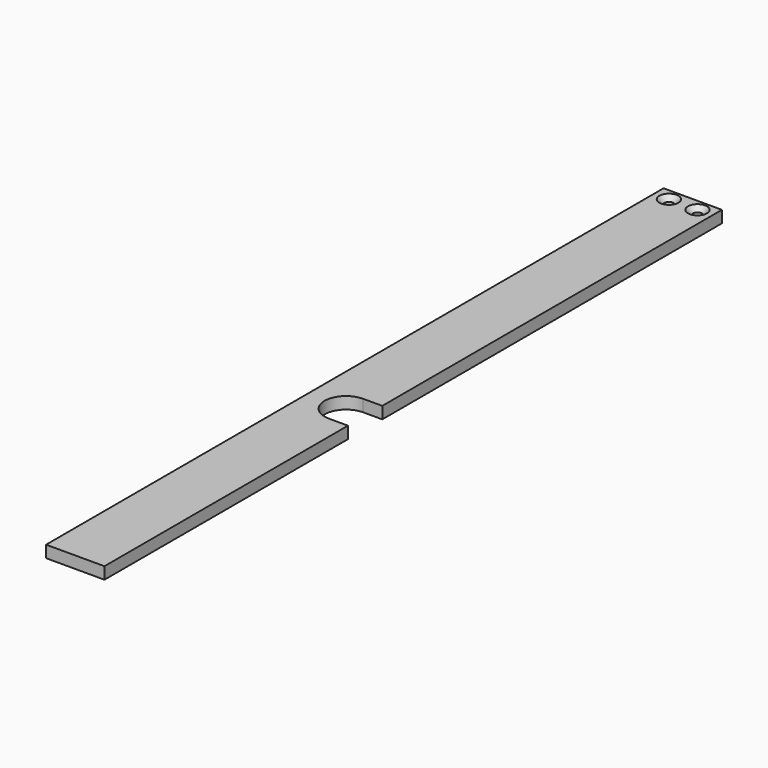
from build123d import *

# Parameters (mm, degrees)
PAD027_DEPTH    = 5
SKETCH059_R     = 2
POCKET037_DEPTH = 5.001
CHAMFER021_SIZE = 2


with BuildPart() as part:
    # Sketch054 → Pad027 (new body)
    with BuildSketch(Plane.XY):
        with BuildLine():
            Line((8.676816, 19.977719), (8.676816, -107.8))
            Line((8.676816, -107.8), (-15.823184, -107.8))
            Line((-15.823184, -107.8), (-15.823184, 216.2))
            Line((-15.823184, 216.2), (8.676816, 216.2))
            Line((8.676816, 216.2), (8.676816, 37.977719))
            Line((0.676816, 37.977719), (8.676816, 37.977719))
            ThreePointArc((0.676816, 37.977719), (-8.323184, 28.977719), (0.676816, 19.977719))
            Line((0.676816, 19.977719), (8.676816, 19.977719))
        make_face()
    extrude(amount=PAD027_DEPTH)

    # Sketch059 (on Face10 of Pad027) → Pocket037 (cut, through all)
    with BuildSketch(Plane.XY.offset(5)):
        with Locations((-9.573184, 211.2)):
            Circle(SKETCH059_R)
        with Locations((2.426816, 211.2)):
            Circle(SKETCH059_R)
    extrude(amount=-POCKET037_DEPTH, mode=Mode.SUBTRACT)

    # Chamfer021
    chamfer021_edges = [part.edges().sort_by_distance(p)[0] for p in [
        (-11.573184, 211.2, 5),
        (0.426816, 211.2, 5),
    ]]
    chamfer(chamfer021_edges, length=CHAMFER021_SIZE)


with BuildPart() as part_1:
    # Body020 placement: moved
    add(part.part.moved(Location((-100, 0, 15.5))))


with BuildPart() as part_2:
    # Clone004 placement: moved
    add(part_1.part.moved(Location((195.823184, 107.8, -20.5))))


solid = part_2.part
